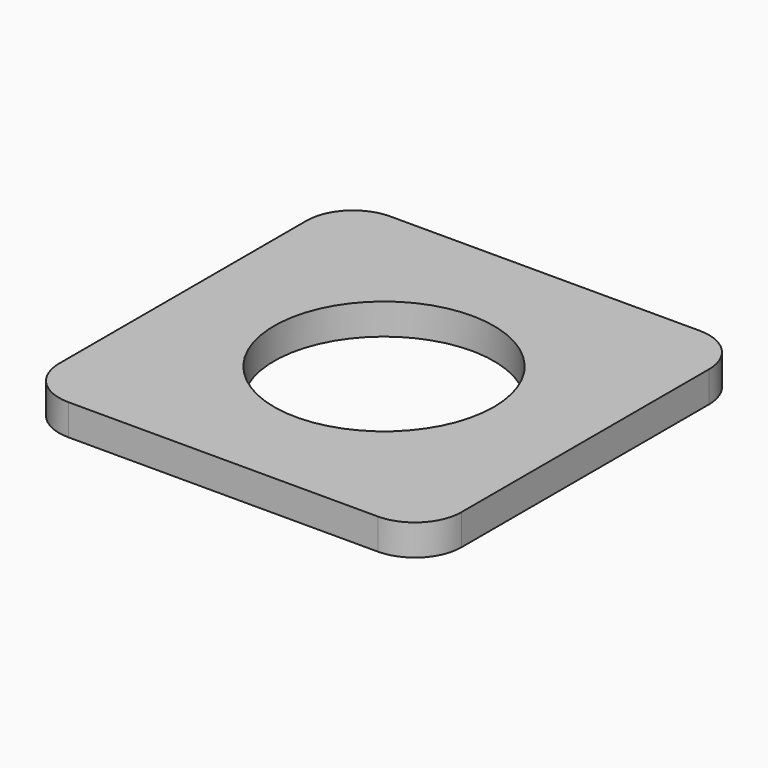
from build123d import *

# Parameters (mm, degrees)
SKETCH_W      = 26
SKETCH_H      = 26
SKETCH_R      = 7.1
EXTRUDE_DEPTH = 2
FILLET_R      = 3


with BuildPart() as part:
    # Sketch → Extrude (new body)
    with BuildSketch(Plane.XY):
        Rectangle(SKETCH_W, SKETCH_H)
        Circle(SKETCH_R, mode=Mode.SUBTRACT)
    extrude(amount=EXTRUDE_DEPTH)

    # Fillet
    fillet_edges = [part.edges().sort_by_distance(p)[0] for p in [
        (-13, -13, 1),
        (13, -13, 1),
        (13, 13, 1),
        (-13, 13, 1),
    ]]
    fillet(fillet_edges, radius=FILLET_R)


solid = part.part
